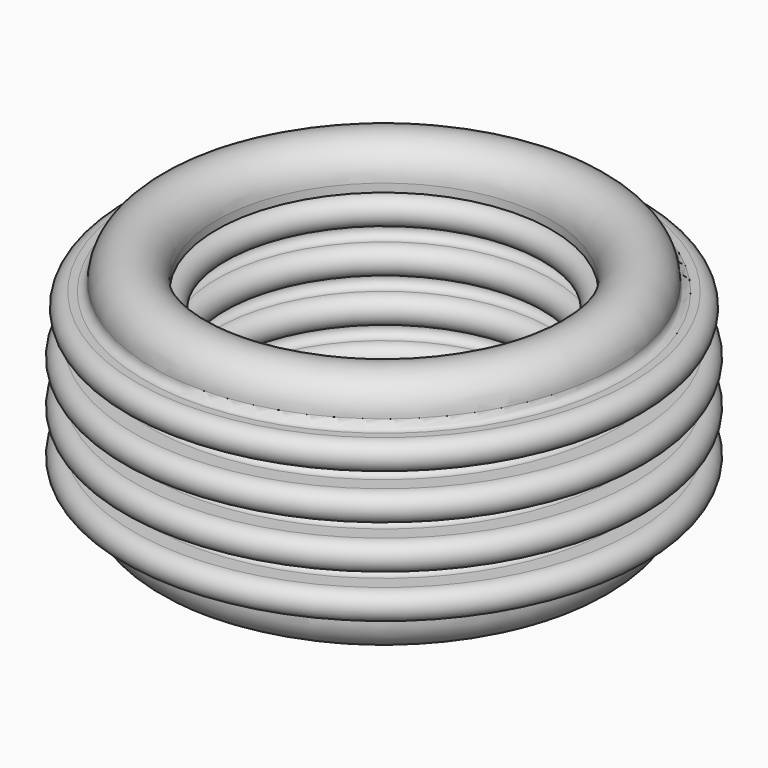
from build123d import *


with BuildPart() as f1:
    # F0 (on Front) → F1 (revolve)
    with BuildSketch(Plane.XZ):
        with BuildLine():
            ThreePointArc((52.746518, 20.523239), (45.457497, 27.81226), (38.168477, 20.523239))
            Line((38.168477, 20.523239), (38.168477, 18.619137))
            ThreePointArc((38.168477, 18.619137), (35, 15.45066), (38.168477, 12.282183))
            ThreePointArc((38.168477, 12.282183), (39.95, 10.50066), (38.168477, 8.719137))
            ThreePointArc((38.168477, 8.719137), (35, 5.55066), (38.168477, 2.382183))
            ThreePointArc((38.168477, 2.382183), (39.95, 0.60066), (38.168477, -1.180863))
            ThreePointArc((38.168477, -1.180863), (35, -4.34934), (38.168477, -7.517817))
            ThreePointArc((38.168477, -7.517817), (39.95, -9.29934), (38.168477, -11.080863))
            ThreePointArc((38.168477, -11.080863), (35, -14.24934), (38.168477, -17.417817))
            Line((38.168477, -17.417817), (38.168477, -19.780755))
            ThreePointArc((38.168477, -19.780755), (45.806495, -27.418773), (53.444513, -19.780755))
            Line((53.444513, -19.780755), (53.444513, -18.917817))
            ThreePointArc((53.444513, -18.917817), (53.883852, -17.857156), (54.944513, -17.417817))
            Line((54.944513, -17.417817), (56.974322, -17.417817))
            ThreePointArc((56.974322, -17.417817), (60.142798, -14.24934), (56.974322, -11.080863))
            Line((56.974322, -11.080863), (55.269364, -11.080863))
            Line((55.269364, -11.080863), (53.444513, -11.080863))
            ThreePointArc((53.444513, -11.080863), (51.662989, -9.29934), (53.444513, -7.517817))
            Line((53.444513, -7.517817), (56.974322, -7.517817))
            ThreePointArc((56.974322, -7.517817), (60.142798, -4.34934), (56.974322, -1.180863))
            Line((56.974322, -1.180863), (55.269364, -1.180863))
            Line((55.269364, -1.180863), (53.444513, -1.180863))
            ThreePointArc((53.444513, -1.180863), (51.662989, 0.60066), (53.444513, 2.382183))
            Line((53.444513, 2.382183), (56.974322, 2.382183))
            ThreePointArc((56.974322, 2.382183), (60.142798, 5.55066), (56.974322, 8.719137))
            Line((56.974322, 8.719137), (55.269364, 8.719137))
            Line((55.269364, 8.719137), (53.444513, 8.719137))
            ThreePointArc((53.444513, 8.719137), (51.662989, 10.50066), (53.444513, 12.282183))
            Line((53.444513, 12.282183), (56.276327, 12.282183))
            ThreePointArc((56.276327, 12.282183), (59.444804, 15.45066), (56.276327, 18.619137))
            Line((56.276327, 18.619137), (54.57137, 18.619137))
            ThreePointArc((54.57137, 18.619137), (53.276391, 19.204557), (52.746518, 20.523239))
        make_face()
    revolve(axis=Axis((0, 0, -9.734465), (0, 0, -1)))


solid = f1.part
